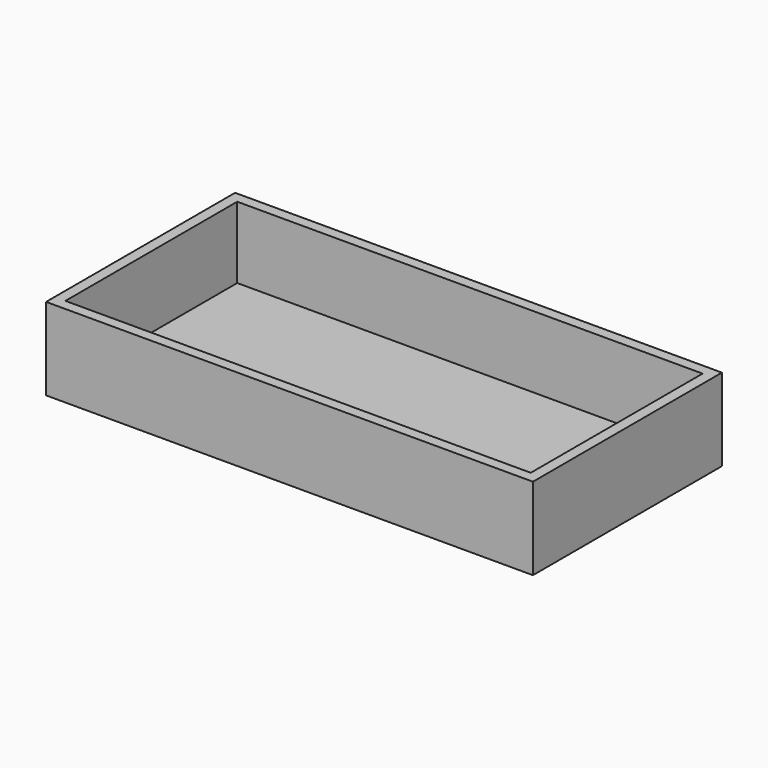
from build123d import *

# Parameters (mm, degrees)
F1_DEPTH = 3.81
F2_W     = 165.1
F2_H     = 76.2
F3_DEPTH = 25.4


with BuildPart() as f1:
    # F0 (on Top) → F1 (new body)
    with BuildSketch(Plane.XY):
        Polygon((-168.91, -3.81), (0, -3.81), (3.81, -3.81), (3.81, 0), (3.81, 80.01), (-165.1, 80.01), (-168.91, 80.01), (-168.91, 76.2), align=None)
    extrude(amount=F1_DEPTH)

    # F2 (on face) → F3 (join)
    with BuildSketch(Plane.XY.offset(3.81)):
        Polygon((-168.91, -3.81), (0, -3.81), (3.81, -3.81), (3.81, 0), (3.81, 80.01), (-165.1, 80.01), (-168.91, 80.01), (-168.91, 76.2), align=None)
        with Locations((-82.55, 38.1)):
            Rectangle(F2_W, F2_H, mode=Mode.SUBTRACT)
    extrude(amount=F3_DEPTH)


solid = f1.part
